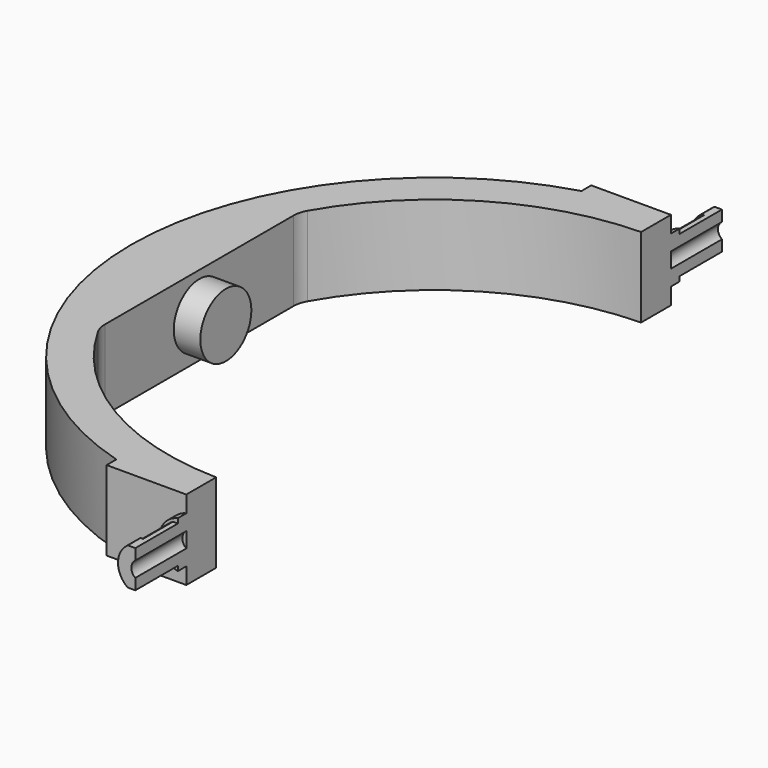
from build123d import *

# Parameters (mm, degrees)
F1_DEPTH  = 15
F2_R      = 6
F3_DEPTH  = 5
F4_R      = 5
F6_DEPTH  = 2
F8_DEPTH  = 7
F10_DEPTH = 3
F11_DEPTH = 25
F13_W     = 146.8421146274
F13_H     = 28.1250011176
F14_DEPTH = 1
F15_W     = 11.3657170441
F15_H     = 11.5304403007
F15_W_2   = 13.3423628286
F15_H_2   = 13.0129233003
F16_DEPTH = 4
F17_W     = 19.5150814822
F17_H     = 12.7272193491
F17_W_2   = 18.9494257321
F17_H_2   = 10.7474377315
F18_DEPTH = 4


with BuildPart() as f1:
    # F0 (on Top) → F1 (new body)
    with BuildSketch(Plane.XY):
        with BuildLine():
            ThreePointArc((-44.16, 23.4498272915), (-25.7634298515, 42.8514373421), (0, 50))
            Line((0, 50), (0, 57))
            Line((0, 57), (-15.9976914198, 57))
            Line((-15.9976914198, 57), (-15.9976914198, 54.7089925811))
            ThreePointArc((-15.9976914198, 54.7089925811), (-57, 0), (-15.9976914198, -54.7089925811))
            Line((-15.9976914198, -54.7089925811), (-15.9976914198, -57))
            Line((-15.9976914198, -57), (0, -57))
            Line((0, -57), (0, -50))
            ThreePointArc((0, -50), (-25.7634298515, -42.8514373421), (-44.16, -23.4498272915))
            Line((-44.16, -23.4498272915), (-44.16, 23.4498272915))
        make_face()
    extrude(amount=F1_DEPTH)

    # F2 (on face) → F3 (join)
    with BuildSketch(Plane.YZ.offset(-44.16)):
        with Locations((0, 7.5)):
            Circle(F2_R)
    extrude(amount=F3_DEPTH)

    # F4
    f4_edges = [f1.edges().sort_by_distance(p)[0] for p in [
        (-44.16, 23.449827, 7.5),
        (-44.16, -23.449827, 7.5),
    ]]
    fillet(f4_edges, radius=F4_R)

    # F5 (on face) → F6 (join)
    with BuildSketch(Plane.XZ.offset(57)):
        with BuildLine():
            Line((0, 9.25), (0, 12))
            ThreePointArc((0, 12), (-4.5, 7.5), (0, 3))
            Line((0, 3), (0, 5.75))
            ThreePointArc((0, 5.75), (-1.75, 7.5), (0, 9.25))
        make_face()
    extrude(amount=F6_DEPTH)

    # F7 (on face) → F8 (join)
    with BuildSketch(Plane.XZ.offset(59)):
        with BuildLine():
            Line((0, 9.25), (0, 11.5))
            ThreePointArc((0, 11.5), (-4, 7.5), (0, 3.5))
            Line((0, 3.5), (0, 5.75))
            ThreePointArc((0, 5.75), (-1.75, 7.5), (0, 9.25))
        make_face()
    extrude(amount=F8_DEPTH)

    # F9 (on face) → F10 (join)
    with BuildSketch(Plane.XZ.offset(66)):
        with BuildLine():
            Line((0, 3.25), (0, 11.75))
            ThreePointArc((0, 11.75), (-4.25, 7.5), (0, 3.25))
        make_face()
    extrude(amount=F10_DEPTH)

    # F11 (cut): a face of the model
    f11_faces = [f1.faces().sort_by_distance(p)[0] for p in [
        (-0.7427230678, -66, 7.5),
    ]]
    extrude(f11_faces, amount=-F11_DEPTH, mode=Mode.SUBTRACT)

    # F12: F1 across plane


with BuildPart() as f1_1:
    add(f1.part)
    add(f1.part.mirror(Plane.XZ))

    # F13 (on Right) → F14 (cut)
    with BuildSketch(Plane.YZ):
        with Locations((0.2960525453, 7.5493426993)):
            Rectangle(F13_W, F13_H)
    extrude(amount=-F14_DEPTH, mode=Mode.SUBTRACT)

    # F15 (on Top) → F16 (cut)
    with BuildSketch(Plane.XY):
        with Locations((-1.9552764716, -64.7652201504)):
            Rectangle(F15_W, F15_H)
        with Locations((-2.1199961193, 65.5064616501)):
            Rectangle(F15_W_2, F15_H_2)
    extrude(amount=F16_DEPTH, mode=Mode.SUBTRACT)

    # F17 (on face) → F18 (cut)
    with BuildSketch(Plane.XY.offset(15)):
        with Locations((-4.4578294758, 65.3636096745)):
            Rectangle(F17_W, F17_H)
        with Locations((-2.7608656596, -64.3737188657)):
            Rectangle(F17_W_2, F17_H_2)
    extrude(amount=-F18_DEPTH, mode=Mode.SUBTRACT)


solid = f1_1.part
